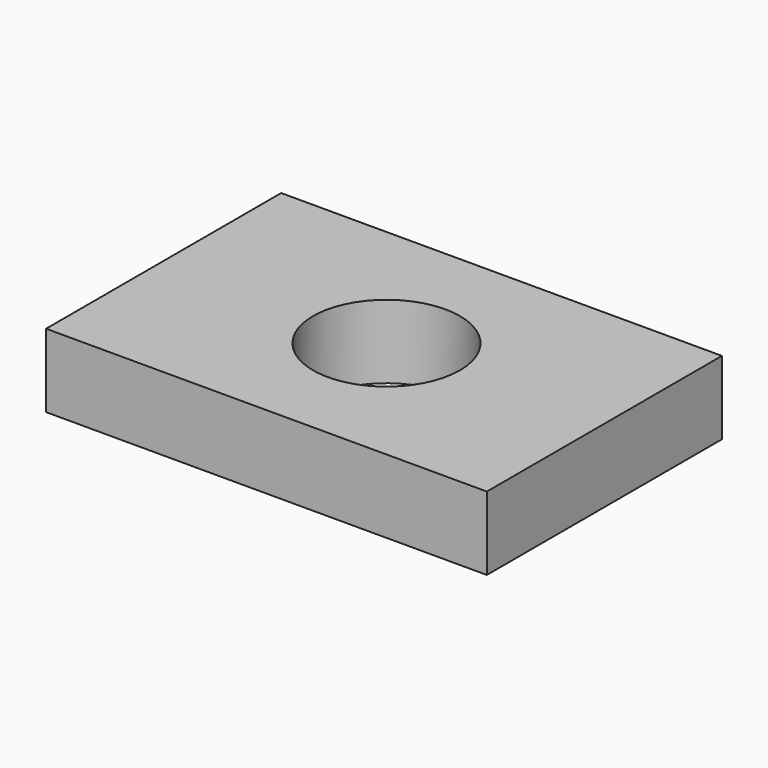
from build123d import *

# Parameters (mm, degrees)
F1_W     = 76.2
F1_H     = 50.8
F1_R     = 12.7
F2_DEPTH = 12.7


with BuildPart() as f2:
    # F1 (on face) → F2 (new body)
    with BuildSketch(Plane.XY):
        Rectangle(F1_W, F1_H)
        with Locations((0.426807, 0)):
            Circle(F1_R, mode=Mode.SUBTRACT)
    extrude(amount=F2_DEPTH)


solid = f2.part
